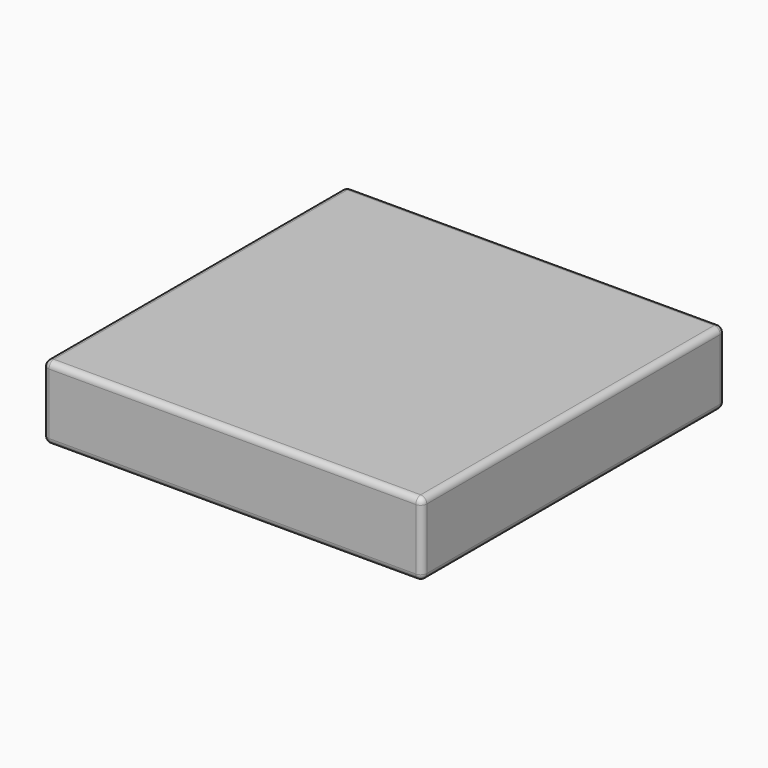
from build123d import *

# Parameters (mm, degrees)
F0_W     = 620
F0_H     = 620
F1_DEPTH = 120
F2_R     = 10
F3_R     = 10


with BuildPart() as f1:
    # F0 (on Top) → F1 (new body)
    with BuildSketch(Plane.XY):
        with Locations((310, 310)):
            Rectangle(F0_W, F0_H)
    extrude(amount=F1_DEPTH)

    # F2
    f2_edges = [f1.edges().sort_by_distance(p)[0] for p in [
        (620, 0, 60),
        (620, 620, 60),
        (0, 0, 60),
        (0, 620, 60),
    ]]
    fillet(f2_edges, radius=F2_R)

    # F3
    f3_edges = [f1.edges().sort_by_distance(p)[0] for p in [
        (310, 0, 120),
        (310, 0, 0),
    ]]
    fillet(f3_edges, radius=F3_R)


solid = f1.part
